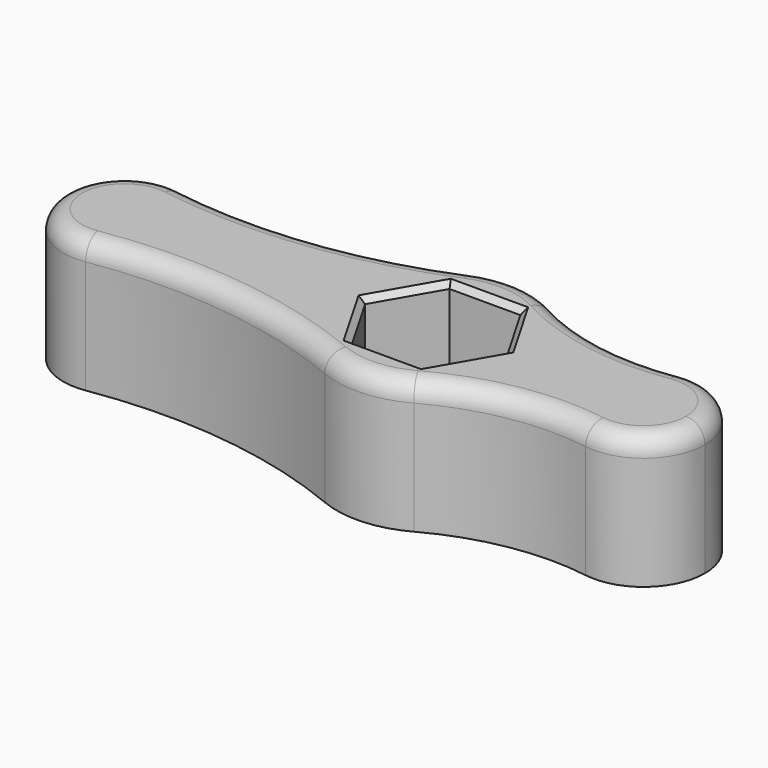
from build123d import *

# Parameters (mm, degrees)
F1_DEPTH = 14
F0_R     = 4
F2_DEPTH = 2
F3_R     = 2
F4_SIZE  = 0.6


with BuildPart() as f1:
    # F0 (on Top) → F1 (new body)
    with BuildSketch(Plane.XY):
        with BuildLine():
            ThreePointArc((-31.978437, -6.419222), (-28.055803, -4.219588), (-26.5, 0))
            ThreePointArc((-26.5, 0), (-28.055803, 4.219588), (-31.978437, 6.419222))
            ThreePointArc((-31.978437, 6.419222), (-39.5, 0), (-31.978437, -6.419222))
        make_face()
        with BuildLine():
            ThreePointArc((-31.978437, 6.419222), (-28.055803, 4.219588), (-26.5, 0))
            ThreePointArc((-26.5, 0), (-28.055803, -4.219588), (-31.978437, -6.419222))
            ThreePointArc((-31.978437, -6.419222), (-17.766263, -6.128644), (-4.008308, -9.704817))
            ThreePointArc((-4.008308, -9.704817), (-10.5, 0), (-4.008308, 9.704817))
            ThreePointArc((-4.008308, 9.704817), (-17.766263, 6.128644), (-31.978437, 6.419222))
        make_face()
        with BuildLine():
            ThreePointArc((5.028446, 9.217632), (0.56525, 10.484774), (-4.008308, 9.704817))
            ThreePointArc((-4.008308, 9.704817), (-10.5, 0), (-4.008308, -9.704817))
            ThreePointArc((-4.008308, -9.704817), (0.56525, -10.484774), (5.028446, -9.217632))
            ThreePointArc((5.028446, -9.217632), (9.029083, -5.359632), (10.5, 0))
            ThreePointArc((10.5, 0), (9.029083, 5.359632), (5.028446, 9.217632))
        make_face()
        Polygon((3.752777, 6.5), (7.505553, 0), (3.752777, -6.5), (-3.752777, -6.5), (-7.505553, 0), (-3.752777, 6.5), align=None, mode=Mode.SUBTRACT)
        with BuildLine():
            ThreePointArc((21.007914, 6.423843), (12.788223, 6.505464), (5.028446, 9.217632))
            ThreePointArc((5.028446, 9.217632), (9.029083, 5.359632), (10.5, 0))
            ThreePointArc((10.5, 0), (9.029083, -5.359632), (5.028446, -9.217632))
            ThreePointArc((5.028446, -9.217632), (12.788223, -6.505464), (21.007914, -6.423843))
            ThreePointArc((21.007914, -6.423843), (15.5, 0), (21.007914, 6.423843))
        make_face()
        with BuildLine():
            ThreePointArc((28.5, 0), (26.230924, 4.934499), (21.007914, 6.423843))
            ThreePointArc((21.007914, 6.423843), (15.5, 0), (21.007914, -6.423843))
            ThreePointArc((21.007914, -6.423843), (26.230924, -4.934499), (28.5, 0))
        make_face()
    extrude(amount=F1_DEPTH)

    # F0 (on Top) → F2 (join)
    with BuildSketch(Plane.XY):
        Polygon((3.752777, -6.5), (7.505553, 0), (3.752777, 6.5), (-3.752777, 6.5), (-7.505553, 0), (-3.752777, -6.5), align=None)
        Circle(F0_R, mode=Mode.SUBTRACT)
    extrude(amount=F2_DEPTH)

    # F3
    f3_edges = [f1.edges().sort_by_distance(p)[0] for p in [
        (-17.766263, -6.128644, 14),
    ]]
    fillet(f3_edges, radius=F3_R)

    # F4
    f4_edges = [f1.edges().sort_by_distance(p)[0] for p in [
        (-5.629165, 3.25, 14),
        (0, 6.5, 14),
        (5.629165, 3.25, 14),
        (5.629165, -3.25, 14),
        (0, -6.5, 14),
        (-5.629165, -3.25, 14),
    ]]
    chamfer(f4_edges, length=F4_SIZE)


solid = f1.part
